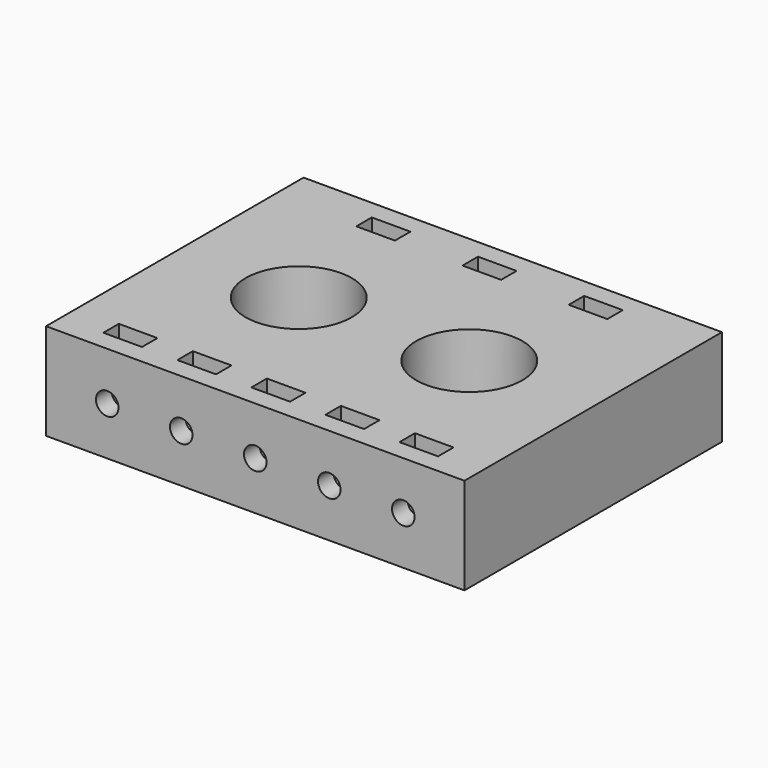
from build123d import *

# Parameters (mm, degrees)
PRISM012_DEPTH            = 3
CYLINDER014_R             = 1.75
CYLINDER014_DEPTH         = 20
BOX014_W                  = 6
BOX014_H                  = 20
BOX014_DEPTH              = 3
FUSION015_PLACEMENT_ANGLE = 180
PRISM013_DEPTH            = 3
CYLINDER015_R             = 1.75
CYLINDER015_DEPTH         = 20
BOX015_W                  = 6
BOX015_H                  = 20
BOX015_DEPTH              = 3
FUSION016_PLACEMENT_ANGLE = 180
PRISM014_DEPTH            = 3
CYLINDER016_R             = 1.75
CYLINDER016_DEPTH         = 20
BOX016_W                  = 6
BOX016_H                  = 20
BOX016_DEPTH              = 3
FUSION017_PLACEMENT_ANGLE = 180
PRISM008_DEPTH            = 3
CYLINDER010_R             = 1.75
CYLINDER010_DEPTH         = 20
BOX010_W                  = 6
BOX010_H                  = 20
BOX010_DEPTH              = 3
PRISM009_DEPTH            = 3
CYLINDER011_R             = 1.75
CYLINDER011_DEPTH         = 20
BOX011_W                  = 6
BOX011_H                  = 20
BOX011_DEPTH              = 3
PRISM010_DEPTH            = 3
CYLINDER012_R             = 1.75
CYLINDER012_DEPTH         = 20
BOX012_W                  = 6
BOX012_H                  = 20
BOX012_DEPTH              = 3
PRISM007_DEPTH            = 3
CYLINDER009_R             = 1.75
CYLINDER009_DEPTH         = 20
BOX009_W                  = 6
BOX009_H                  = 20
BOX009_DEPTH              = 3
PRISM011_DEPTH            = 3
CYLINDER013_R             = 1.75
CYLINDER013_DEPTH         = 20
BOX013_W                  = 6
BOX013_H                  = 20
BOX013_DEPTH              = 3
CYLINDER001_R             = 8.25
CYLINDER001_DEPTH         = 20
CYLINDER_R                = 8.25
CYLINDER_DEPTH            = 20
FUSION_PITCH_ANGLE        = -90
FUSION_PLACEMENT_ANGLE    = 90
BOX_W                     = 65
BOX_H                     = 15
BOX_DEPTH                 = 50
CUT002_PLACEMENT_ANGLE    = 90


with BuildPart() as prisma012:
    # Prism012 → Prism012 (new body)
    with BuildSketch(Plane(origin=(34, 7.5, 3), x_dir=(0, 1, 0), z_dir=(0, 0, 1))):
        Polygon((3.25, 0), (1.625, 2.814583), (-1.625, 2.814583), (-3.25, 0), (-1.625, -2.814583), (1.625, -2.814583), align=None)
    extrude(amount=PRISM012_DEPTH)


with BuildPart() as cilindro014:
    # Cylinder014 → Cylinder014 (new body)
    with BuildSketch(Plane(origin=(34, 7.5, -1), x_dir=(1, 0, 0), z_dir=(0, 0, 1))):
        Circle(CYLINDER014_R)
    extrude(amount=CYLINDER014_DEPTH)


with BuildPart() as fusion015:
    # Box014 → Box014 (new body)
    with BuildSketch(Plane(origin=(31, 9, 3), x_dir=(1, 0, 0), z_dir=(0, 0, 1))):
        with Locations((3, 10)):
            Rectangle(BOX014_W, BOX014_H)
    extrude(amount=BOX014_DEPTH)

    # Fusion015: union Prisma012, Cilindro014
    add(prisma012.part)
    add(cilindro014.part)


with BuildPart() as fusion015_1:
    # Fusion015 placement: moved
    add(fusion015.part.moved(Location((44, 0, 9))).rotate(Axis((44, 0, 9), (0, 1, 0)), FUSION015_PLACEMENT_ANGLE))


with BuildPart() as prisma013:
    # Prism013 → Prism013 (new body)
    with BuildSketch(Plane(origin=(34, 7.5, 3), x_dir=(0, 1, 0), z_dir=(0, 0, 1))):
        Polygon((3.25, 0), (1.625, 2.814583), (-1.625, 2.814583), (-3.25, 0), (-1.625, -2.814583), (1.625, -2.814583), align=None)
    extrude(amount=PRISM013_DEPTH)


with BuildPart() as cilindro015:
    # Cylinder015 → Cylinder015 (new body)
    with BuildSketch(Plane(origin=(34, 7.5, -1), x_dir=(1, 0, 0), z_dir=(0, 0, 1))):
        Circle(CYLINDER015_R)
    extrude(amount=CYLINDER015_DEPTH)


with BuildPart() as fusion016:
    # Box015 → Box015 (new body)
    with BuildSketch(Plane(origin=(31, 9, 3), x_dir=(1, 0, 0), z_dir=(0, 0, 1))):
        with Locations((3, 10)):
            Rectangle(BOX015_W, BOX015_H)
    extrude(amount=BOX015_DEPTH)

    # Fusion016: union Prisma013, Cilindro015
    add(prisma013.part)
    add(cilindro015.part)


with BuildPart() as fusion016_1:
    # Fusion016 placement: moved
    add(fusion016.part.moved(Location((60.5, 0, 9))).rotate(Axis((60.5, 0, 9), (0, 1, 0)), FUSION016_PLACEMENT_ANGLE))


with BuildPart() as prisma014:
    # Prism014 → Prism014 (new body)
    with BuildSketch(Plane(origin=(34, 7.5, 3), x_dir=(0, 1, 0), z_dir=(0, 0, 1))):
        Polygon((3.25, 0), (1.625, 2.814583), (-1.625, 2.814583), (-3.25, 0), (-1.625, -2.814583), (1.625, -2.814583), align=None)
    extrude(amount=PRISM014_DEPTH)


with BuildPart() as cilindro016:
    # Cylinder016 → Cylinder016 (new body)
    with BuildSketch(Plane(origin=(34, 7.5, -1), x_dir=(1, 0, 0), z_dir=(0, 0, 1))):
        Circle(CYLINDER016_R)
    extrude(amount=CYLINDER016_DEPTH)


with BuildPart() as fusion018:
    # Box016 → Box016 (new body)
    with BuildSketch(Plane(origin=(31, 9, 3), x_dir=(1, 0, 0), z_dir=(0, 0, 1))):
        with Locations((3, 10)):
            Rectangle(BOX016_W, BOX016_H)
    extrude(amount=BOX016_DEPTH)

    # Fusion017: union Prisma014, Cilindro016
    add(prisma014.part)
    add(cilindro016.part)


with BuildPart() as fusion018_1:
    # Fusion017 placement: moved
    add(fusion018.part.moved(Location((77, 0, 9))).rotate(Axis((77, 0, 9), (0, 1, 0)), FUSION017_PLACEMENT_ANGLE))

    # Fusion018: union Fusion015, Fusion016
    add(fusion015_1.part)
    add(fusion016_1.part)


with BuildPart() as fusion018_2:
    # Fusion018 placement: moved
    add(fusion018_1.part.moved(Location((6, 0, 0))))


with BuildPart() as prisma008:
    # Prism008 → Prism008 (new body)
    with BuildSketch(Plane(origin=(34, 7.5, 3), x_dir=(0, 1, 0), z_dir=(0, 0, 1))):
        Polygon((3.25, 0), (1.625, 2.814583), (-1.625, 2.814583), (-3.25, 0), (-1.625, -2.814583), (1.625, -2.814583), align=None)
    extrude(amount=PRISM008_DEPTH)


with BuildPart() as cilindro010:
    # Cylinder010 → Cylinder010 (new body)
    with BuildSketch(Plane(origin=(34, 7.5, -1), x_dir=(1, 0, 0), z_dir=(0, 0, 1))):
        Circle(CYLINDER010_R)
    extrude(amount=CYLINDER010_DEPTH)


with BuildPart() as fusion010:
    # Box010 → Box010 (new body)
    with BuildSketch(Plane(origin=(31, 9, 3), x_dir=(1, 0, 0), z_dir=(0, 0, 1))):
        with Locations((3, 10)):
            Rectangle(BOX010_W, BOX010_H)
    extrude(amount=BOX010_DEPTH)

    # Fusion010: union Prisma008, Cilindro010
    add(prisma008.part)
    add(cilindro010.part)


with BuildPart() as fusion010_1:
    # Fusion010 placement: moved
    add(fusion010.part.moved(Location((-9.5, 0, 41))))


with BuildPart() as prisma009:
    # Prism009 → Prism009 (new body)
    with BuildSketch(Plane(origin=(34, 7.5, 3), x_dir=(0, 1, 0), z_dir=(0, 0, 1))):
        Polygon((3.25, 0), (1.625, 2.814583), (-1.625, 2.814583), (-3.25, 0), (-1.625, -2.814583), (1.625, -2.814583), align=None)
    extrude(amount=PRISM009_DEPTH)


with BuildPart() as cilindro011:
    # Cylinder011 → Cylinder011 (new body)
    with BuildSketch(Plane(origin=(34, 7.5, -1), x_dir=(1, 0, 0), z_dir=(0, 0, 1))):
        Circle(CYLINDER011_R)
    extrude(amount=CYLINDER011_DEPTH)


with BuildPart() as fusion011:
    # Box011 → Box011 (new body)
    with BuildSketch(Plane(origin=(31, 9, 3), x_dir=(1, 0, 0), z_dir=(0, 0, 1))):
        with Locations((3, 10)):
            Rectangle(BOX011_W, BOX011_H)
    extrude(amount=BOX011_DEPTH)

    # Fusion011: union Prisma009, Cilindro011
    add(prisma009.part)
    add(cilindro011.part)


with BuildPart() as fusion011_1:
    # Fusion011 placement: moved
    add(fusion011.part.moved(Location((2, 0, 41))))


with BuildPart() as prisma010:
    # Prism010 → Prism010 (new body)
    with BuildSketch(Plane(origin=(34, 7.5, 3), x_dir=(0, 1, 0), z_dir=(0, 0, 1))):
        Polygon((3.25, 0), (1.625, 2.814583), (-1.625, 2.814583), (-3.25, 0), (-1.625, -2.814583), (1.625, -2.814583), align=None)
    extrude(amount=PRISM010_DEPTH)


with BuildPart() as cilindro012:
    # Cylinder012 → Cylinder012 (new body)
    with BuildSketch(Plane(origin=(34, 7.5, -1), x_dir=(1, 0, 0), z_dir=(0, 0, 1))):
        Circle(CYLINDER012_R)
    extrude(amount=CYLINDER012_DEPTH)


with BuildPart() as fusion012:
    # Box012 → Box012 (new body)
    with BuildSketch(Plane(origin=(31, 9, 3), x_dir=(1, 0, 0), z_dir=(0, 0, 1))):
        with Locations((3, 10)):
            Rectangle(BOX012_W, BOX012_H)
    extrude(amount=BOX012_DEPTH)

    # Fusion012: union Prisma010, Cilindro012
    add(prisma010.part)
    add(cilindro012.part)


with BuildPart() as fusion012_1:
    # Fusion012 placement: moved
    add(fusion012.part.moved(Location((13.5, 0, 41))))


with BuildPart() as prisma007:
    # Prism007 → Prism007 (new body)
    with BuildSketch(Plane(origin=(34, 7.5, 3), x_dir=(0, 1, 0), z_dir=(0, 0, 1))):
        Polygon((3.25, 0), (1.625, 2.814583), (-1.625, 2.814583), (-3.25, 0), (-1.625, -2.814583), (1.625, -2.814583), align=None)
    extrude(amount=PRISM007_DEPTH)


with BuildPart() as cilindro009:
    # Cylinder009 → Cylinder009 (new body)
    with BuildSketch(Plane(origin=(34, 7.5, -1), x_dir=(1, 0, 0), z_dir=(0, 0, 1))):
        Circle(CYLINDER009_R)
    extrude(amount=CYLINDER009_DEPTH)


with BuildPart() as fusion009:
    # Box009 → Box009 (new body)
    with BuildSketch(Plane(origin=(31, 9, 3), x_dir=(1, 0, 0), z_dir=(0, 0, 1))):
        with Locations((3, 10)):
            Rectangle(BOX009_W, BOX009_H)
    extrude(amount=BOX009_DEPTH)

    # Fusion009: union Prisma007, Cilindro009
    add(prisma007.part)
    add(cilindro009.part)


with BuildPart() as fusion009_1:
    # Fusion009 placement: moved
    add(fusion009.part.moved(Location((-21, 0, 41))))


with BuildPart() as prisma011:
    # Prism011 → Prism011 (new body)
    with BuildSketch(Plane(origin=(34, 7.5, 3), x_dir=(0, 1, 0), z_dir=(0, 0, 1))):
        Polygon((3.25, 0), (1.625, 2.814583), (-1.625, 2.814583), (-3.25, 0), (-1.625, -2.814583), (1.625, -2.814583), align=None)
    extrude(amount=PRISM011_DEPTH)


with BuildPart() as cilindro013:
    # Cylinder013 → Cylinder013 (new body)
    with BuildSketch(Plane(origin=(34, 7.5, -1), x_dir=(1, 0, 0), z_dir=(0, 0, 1))):
        Circle(CYLINDER013_R)
    extrude(amount=CYLINDER013_DEPTH)


with BuildPart() as fusion014:
    # Box013 → Box013 (new body)
    with BuildSketch(Plane(origin=(31, 9, 3), x_dir=(1, 0, 0), z_dir=(0, 0, 1))):
        with Locations((3, 10)):
            Rectangle(BOX013_W, BOX013_H)
    extrude(amount=BOX013_DEPTH)

    # Fusion013: union Prisma011, Cilindro013
    add(prisma011.part)
    add(cilindro013.part)


with BuildPart() as fusion014_1:
    # Fusion013 placement: moved
    add(fusion014.part.moved(Location((25, 0, 41))))

    # Fusion014: union Fusion010, Fusion011, Fusion012, Fusion009
    add(fusion010_1.part)
    add(fusion011_1.part)
    add(fusion012_1.part)
    add(fusion009_1.part)


with BuildPart() as fusion014_2:
    # Fusion014 placement: moved
    add(fusion014_1.part.moved(Location((-3.5, 0, 0))))


with BuildPart() as cilindro001:
    # Cylinder001 → Cylinder001 (new body)
    with BuildSketch(Plane(origin=(10, 36.5, 0), x_dir=(1, 0, 0), z_dir=(0, 0, 1))):
        Circle(CYLINDER001_R)
    extrude(amount=CYLINDER001_DEPTH)


with BuildPart() as fusion:
    # Cylinder → Cylinder (new body)
    with BuildSketch(Plane(origin=(10, 10, 0), x_dir=(1, 0, 0), z_dir=(0, 0, 1))):
        Circle(CYLINDER_R)
    extrude(amount=CYLINDER_DEPTH)

    # Fusion: union Cilindro001
    add(cilindro001.part)


with BuildPart() as fusion_1:
    # Fusion pitch: moved
    add(fusion.part.rotate(Axis((0, 0, 0), (0, 1, 0)), FUSION_PITCH_ANGLE))


with BuildPart() as fusion_2:
    # Fusion placement: moved
    add(fusion_1.part.moved(Location((55.75, 17, 15))).rotate(Axis((55.75, 17, 15), (0, 0, 1)), FUSION_PLACEMENT_ANGLE))


with BuildPart() as cut002:
    # Box → Box (new body)
    with BuildSketch(Plane.XY):
        with Locations((32.5, 7.5)):
            Rectangle(BOX_W, BOX_H)
    extrude(amount=BOX_DEPTH)

    # Cut: cut Fusion
    add(fusion_2.part, mode=Mode.SUBTRACT)

    # Cut001: cut Fusion014
    add(fusion014_2.part, mode=Mode.SUBTRACT)

    # Cut002: cut Fusion018
    add(fusion018_2.part, mode=Mode.SUBTRACT)


with BuildPart() as cut002_1:
    # Cut002 placement: moved
    add(cut002.part.rotate(Axis((0, 0, 0), (1, 0, 0)), CUT002_PLACEMENT_ANGLE))


solid = cut002_1.part
